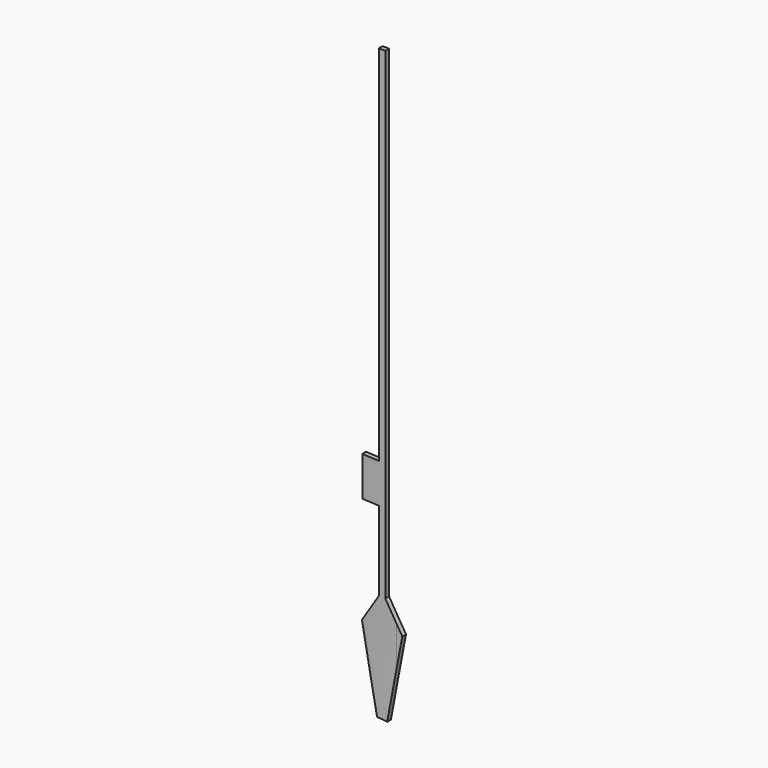
from build123d import *

# Parameters (mm, degrees)
F2_DEPTH = 467.36
F0_W     = 1740.8808469772
F0_H     = 2259.9012851715
F3_DEPTH = 60.96
F4_SCALE = 4.0036646816


with BuildPart() as f2:
    # F1 (on Top) → F2 (new body, symmetric)
    with BuildSketch(Plane.XY):
        with BuildLine():
            ThreePointArc((43.9515819812, 10.727503337), (23.9174424667, 1.374675553), (2.0415819812, -1.8329499959))
            Line((2.0415819812, -1.8329499959), (2.0415819812, -2.6877246239))
            ThreePointArc((2.0415819812, -2.6877246239), (24.6495492784, 0.7433272272), (45.2215819812, 10.727503337))
            Line((45.2215819812, 10.727503337), (43.9515819812, 10.727503337))
        make_face()
        with BuildLine():
            Line((2.0415819812, -2.6877246239), (2.0415819812, -1.8329499959))
            ThreePointArc((2.0415819812, -1.8329499959), (-19.8342785043, 1.374675553), (-39.8684180188, 10.727503337))
            Line((-39.8684180188, 10.727503337), (-41.1384180188, 10.727503337))
            ThreePointArc((-41.1384180188, 10.727503337), (-20.566385316, 0.7433272272), (2.0415819812, -2.6877246239))
        make_face()
    extrude(amount=F2_DEPTH, both=True)

    # F0 (on Front) → F3 (cut, symmetric)
    with BuildSketch(Plane.XZ):
        with Locations((133.3307623863, -204.713344574)):
            Rectangle(F0_W, F0_H)
        with BuildLine():
            Line((-1.295193345, -63.3309016509), (-1.295193345, 3.4090982191))
            Line((-1.295193345, 3.4090982191), (-0.065193265, 3.4090982191))
            Line((-0.065193265, 3.4090982191), (-0.065193265, -85.1709024209))
            Line((-0.065193265, -85.1709024209), (3.0674625036, -90.2881598735))
            Line((3.0674625036, -90.2881598735), (0.2766351171, -105.037851818))
            add(Edge.make_bspline(
                [(-0.680193305, -107.4909024849), (-0.3650057018, -107.493656038), (-0.0441852923, -106.265753928), (0.2766351171, -105.037851818)],
                knots=[0.5054719927, 0.5054719927, 0.5054719927, 0.5054719927, 1, 1, 1, 1], degree=3))
            add(Edge.make_bspline(
                [(-1.6349118244, -104.9110038356), (-1.3186339428, -106.1995459155), (-1.0023560613, -107.4880879954), (-0.680193305, -107.4909024849)],
                knots=[0, 0, 0, 0, 0.5054719927, 0.5054719927, 0.5054719927, 0.5054719927], degree=3))
            Line((-1.6349118244, -104.9110038356), (-4.5669513225, -90.2003612126))
            Line((-4.5669513225, -90.2003612126), (-1.295193345, -85.1709024209))
            Line((-1.295193345, -85.1709024209), (-1.295193345, -70.5809023909))
            Line((-1.295193345, -70.5809023909), (-4.495186945, -70.5809023909))
            Line((-4.495186945, -70.5809023909), (-4.495186945, -63.3309016509))
            Line((-4.495186945, -63.3309016509), (-1.295193345, -63.3309016509))
        make_face(mode=Mode.SUBTRACT)
        with BuildLine():
            Line((-0.680193305, -107.4909024849), (-0.680193305, -104.9110038356))
            Line((-0.680193305, -104.9110038356), (-1.6349118244, -104.9110038356))
            add(Edge.make_bspline(
                [(-1.6349118244, -104.9110038356), (-1.3186339428, -106.1995459155), (-1.0023560613, -107.4880879954), (-0.680193305, -107.4909024849)],
                knots=[0, 0, 0, 0, 0.5054719927, 0.5054719927, 0.5054719927, 0.5054719927], degree=3))
        make_face()
        with BuildLine():
            Line((0.2766351171, -105.037851818), (-0.680193305, -104.9110038356))
            Line((-0.680193305, -104.9110038356), (-0.680193305, -107.4909024849))
            add(Edge.make_bspline(
                [(-0.680193305, -107.4909024849), (-0.3650057018, -107.493656038), (-0.0441852923, -106.265753928), (0.2766351171, -105.037851818)],
                knots=[0.5054719927, 0.5054719927, 0.5054719927, 0.5054719927, 1, 1, 1, 1], degree=3))
        make_face()
    extrude(amount=F3_DEPTH, both=True, mode=Mode.SUBTRACT)


with BuildPart() as f2_1:
    # F4: moved
    add(f2.part.scale(F4_SCALE))


solid = f2_1.part
